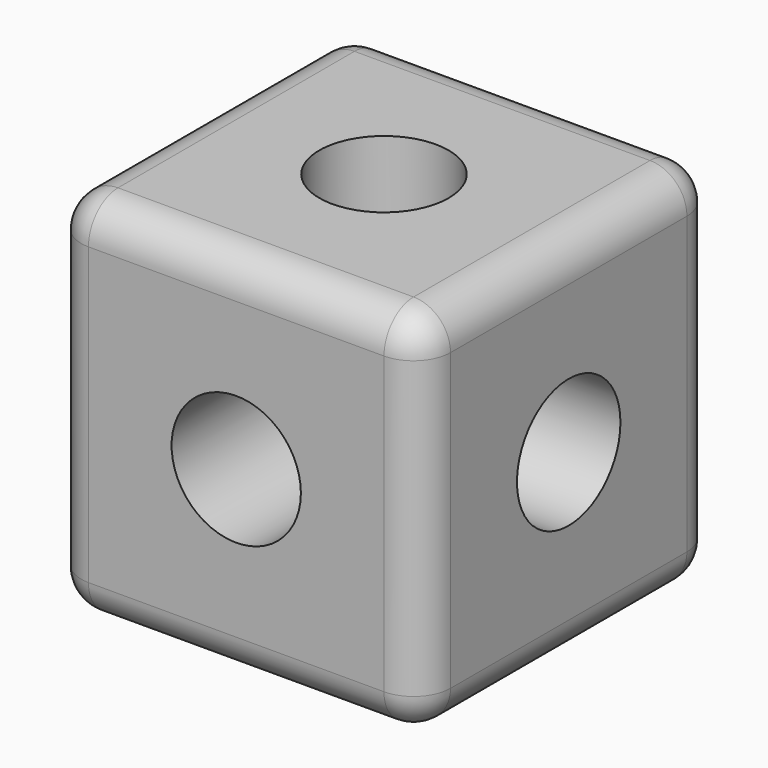
from build123d import *

# Parameters (mm, degrees)
F0_W     = 100
F0_H     = 100
F1_DEPTH = 50
F2_R     = 17.5
F3_DEPTH = 100
F4_R     = 17.5
F5_DEPTH = 100
F6_R     = 17.5
F7_DEPTH = 100
F8_R     = 10


with BuildPart() as f1:
    # F0 (on Front) → F1 (new body, symmetric)
    with BuildSketch(Plane.XZ):
        Rectangle(F0_W, F0_H)
    extrude(amount=F1_DEPTH, both=True)

    # F2 (on face) → F3 (cut, through all)
    with BuildSketch(Plane.XZ.offset(50)):
        Circle(F2_R)
    extrude(amount=-F3_DEPTH, mode=Mode.SUBTRACT)

    # F4 (on face) → F5 (cut, through all)
    with BuildSketch(Plane.YZ.offset(50)):
        Circle(F4_R)
    extrude(amount=-F5_DEPTH, mode=Mode.SUBTRACT)

    # F6 (on face) → F7 (cut, through all)
    with BuildSketch(Plane.XY.offset(50)):
        Circle(F6_R)
    extrude(amount=-F7_DEPTH, mode=Mode.SUBTRACT)

    # F8
    f8_edges = [f1.edges().sort_by_distance(p)[0] for p in [
        (50, 0, 50),
        (50, 50, 0),
        (50, 0, -50),
        (50, -50, 0),
        (0, -50, 50),
        (-50, 0, 50),
        (0, 50, 50),
        (-50, 50, 0),
        (0, 50, -50),
        (-50, 0, -50),
        (-50, -50, 0),
        (0, -50, -50),
    ]]
    fillet(f8_edges, radius=F8_R)


solid = f1.part
